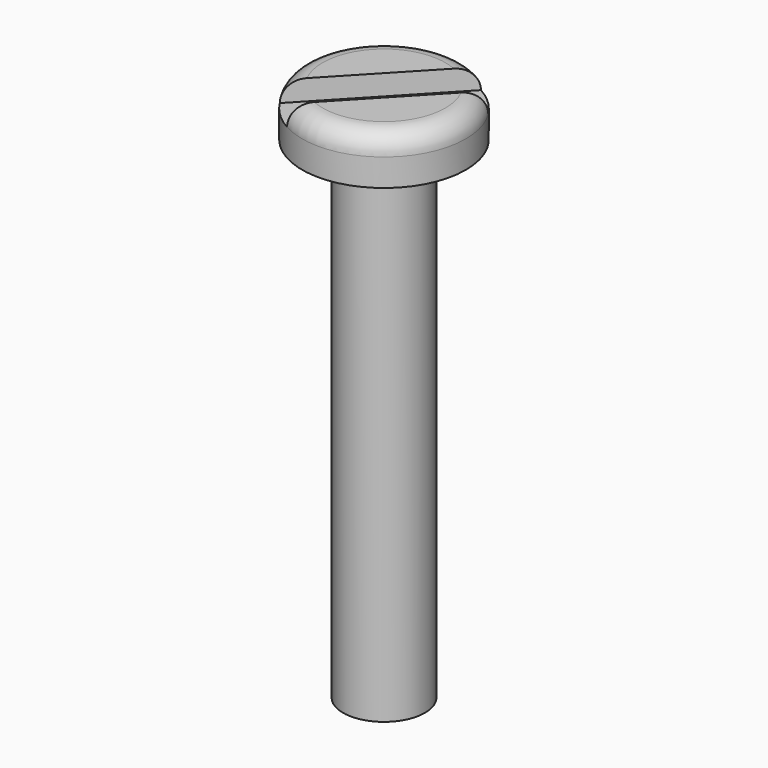
from build123d import *

# Parameters (mm, degrees)
POCKET_DEPTH = 0.75


with BuildPart() as part:
    # Sketch → Revolution (revolve)
    with BuildSketch(Plane.XZ):
        with BuildLine():
            Line((0, 0), (0, 19.75))
            Line((0, 19.75), (2.25, 19.75))
            ThreePointArc((3, 19), (2.78033, 19.53033), (2.25, 19.75))
            Line((3, 19), (3, 18))
            Line((3, 18), (1.5, 18))
            Line((1.5, 18), (1.5, 0))
            Line((1.5, 0), (0, 0))
        make_face()
    revolve(axis=Axis((0, 0, 0), (0, 0, 1)))

    # Sketch001 (on Face5 of Revolution) → Pocket (cut)
    with BuildSketch(Plane(origin=(0, 0, 19.75), x_dir=(-1, 0, 0), z_dir=(0, 0, 1))):
        Polygon((-3.274783, -2.372712), (2.184691, 3.4031), (3.274783, 2.372712), (-2.184691, -3.4031), align=None)
    extrude(amount=-POCKET_DEPTH, mode=Mode.SUBTRACT)


solid = part.part
